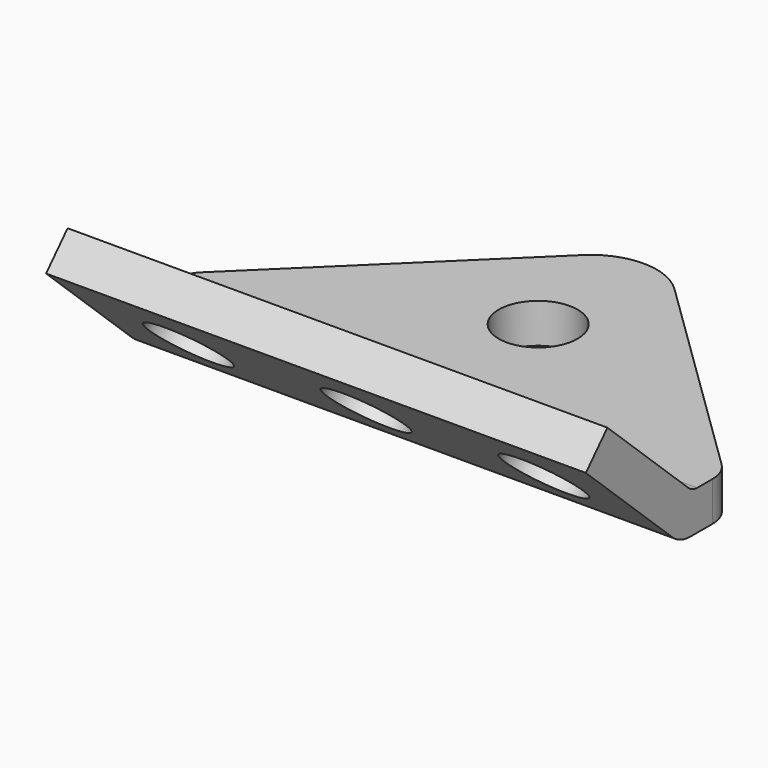
from build123d import *

# Parameters (mm, degrees)
F1_DEPTH = 3
F2_R     = 3
F3_DEPTH = 3
F5_DEPTH = 41
F6_R     = 1.25
F7_R     = 3
F8_DEPTH = 3


with BuildPart() as f1:
    # F0 (on Top) → F1 (new body)
    with BuildSketch(Plane.XY):
        with BuildLine():
            ThreePointArc((3.4900408275, -3.4019155104), (0, -1.9823645076), (-3.4900408275, -3.4019155104))
            Line((-3.4900408275, -3.4019155104), (-19.7450204138, -19.2464485424))
            ThreePointArc((-19.7450204138, -19.2464485424), (-20.3035354387, -20.065218213), (-20.5, -21.036673041))
            Line((-20.5, -21.036673041), (-20.5, -22.9823645076))
            Line((-20.5, -22.9823645076), (20.5, -22.9823645076))
            Line((20.5, -22.9823645076), (20.5, -21.036673041))
            ThreePointArc((20.5, -21.036673041), (20.3035354387, -20.065218213), (19.7450204138, -19.2464485424))
            Line((19.7450204138, -19.2464485424), (3.4900408275, -3.4019155104))
        make_face()
    extrude(amount=F1_DEPTH)

    # F2 (on face) → F3 (cut)
    with BuildSketch(Plane.XY.offset(3)):
        with Locations((0, -11.9823645076)):
            Circle(F2_R)
    extrude(amount=-F3_DEPTH, mode=Mode.SUBTRACT)

    # F4 (on face) → F5 (join)
    with BuildSketch(Plane(origin=(-20.5, 0, 0), x_dir=(0, -1, 0), z_dir=(-1, 0, 0))):
        with BuildLine():
            Line((31.0350133065, 10.4936538032), (22.9823645076, 3))
            Line((22.9823645076, 3), (22.9823645076, 0))
            Line((22.9823645076, 0), (23.1790209905, 0))
            ThreePointArc((23.1790209905, 0), (24.0940705422, 0.1734823624), (24.8821241276, 0.6698525457))
            Line((24.8821241276, 0.6698525457), (33.078737071, 8.2974768581))
            Line((33.078737071, 8.2974768581), (31.0350133065, 10.4936538032))
        make_face()
    extrude(amount=-F5_DEPTH)

    # F6
    f6_edges = [f1.edges().sort_by_distance(p)[0] for p in [
        (0, -22.982365, 3),
    ]]
    fillet(f6_edges, radius=F6_R)

    # F7 (on face) → F8 (cut)
    with BuildSketch(Plane(origin=(0, -9.1697511003, -9.8537758913), x_dir=(1, 0, 0), z_dir=(0, 0.6812412548, 0.7320589817))):
        with Locations((13.5, -23.3598113305)):
            Circle(F7_R)
        with Locations((0, -23.3598113305)):
            Circle(F7_R)
        with Locations((-13.5, -23.3598113305)):
            Circle(F7_R)
    extrude(amount=-F8_DEPTH, mode=Mode.SUBTRACT)


solid = f1.part
